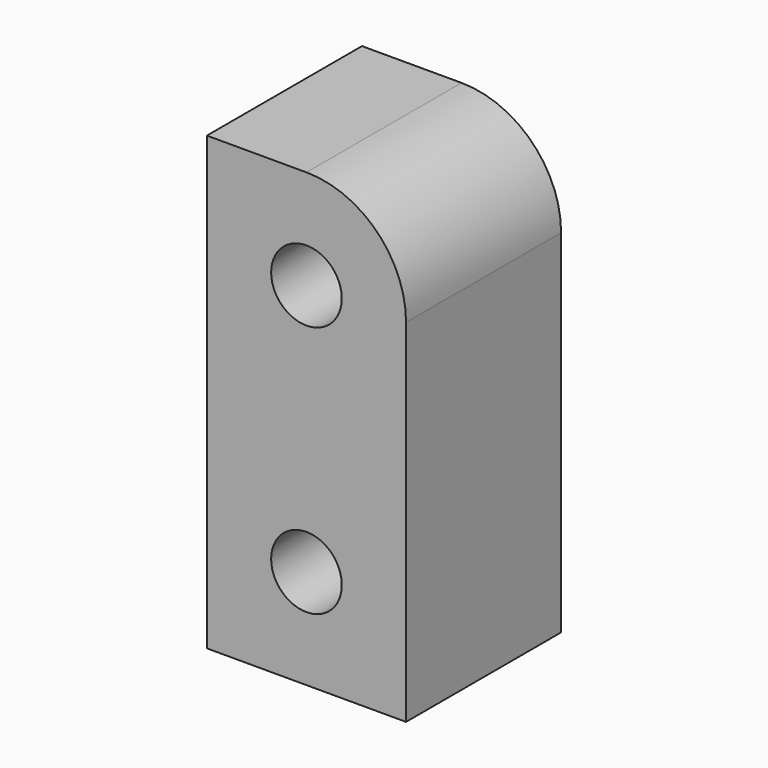
from build123d import *

# Parameters (mm, degrees)
F0_W     = 19.05
F0_H     = 43.18
F1_DEPTH = 18.542
F2_R     = 9.525
F4_D     = 6.7564


with BuildPart() as f1:
    # F0 (on Front) → F1 (new body)
    with BuildSketch(Plane.XZ):
        with Locations((9.525, 21.59)):
            Rectangle(F0_W, F0_H)
    extrude(amount=F1_DEPTH)

    # F2
    f2_edges = [f1.edges().sort_by_distance(p)[0] for p in [
        (19.05, -9.271, 43.18),
    ]]
    fillet(f2_edges, radius=F2_R)

    # F4 (through all)
    with Locations(Plane.XZ.offset(18.542)):
        with Locations((9.525, 33.655), (9.525, 9.525)):
            Hole(F4_D / 2)


solid = f1.part
